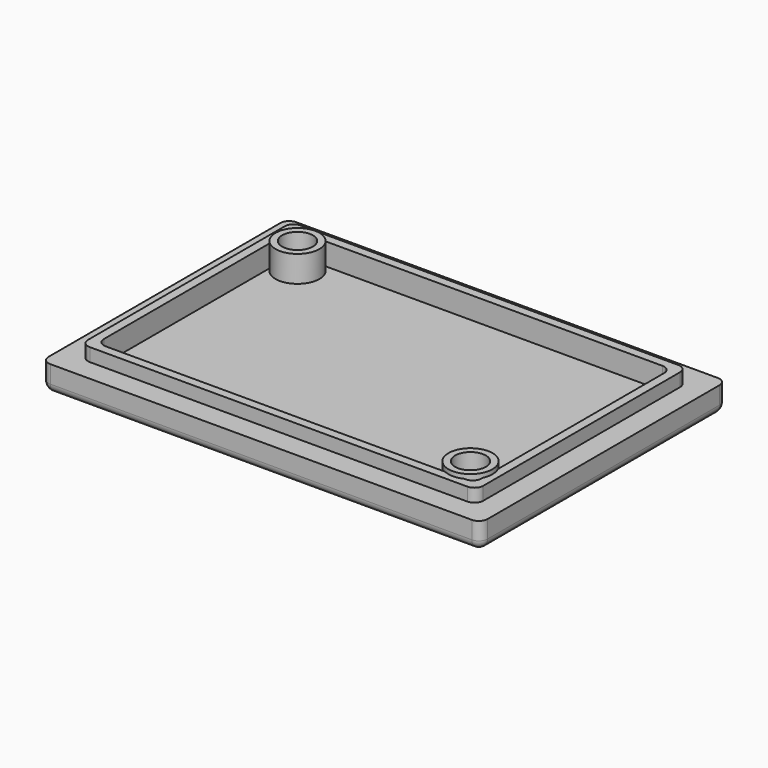
from build123d import *

# Parameters (mm, degrees)
SKETCH_W        = 50
SKETCH_H        = 35
PAD_DEPTH       = 3
SKETCH002_W     = 45
SKETCH002_H     = 30
PAD001_DEPTH    = 1.5
SKETCH003_W     = 43
SKETCH003_H     = 28
POCKET001_DEPTH = 2.5
FILLET_R        = 1
FILLET001_R     = 1
SKETCH005_R     = 2.5
PAD002_DEPTH    = 5
SKETCH004_R     = 2.5
PAD003_DEPTH    = 5
SKETCH006_R     = 1.75
POCKET_DEPTH    = 5
SKETCH007_R     = 1.75
POCKET002_DEPTH = 5
CHAMFER_SIZE    = 1.5
CHAMFER001_SIZE = 1.5


with BuildPart() as part:
    # Sketch → Pad (new body)
    with BuildSketch(Plane.XY):
        Rectangle(SKETCH_W, SKETCH_H)
    extrude(amount=PAD_DEPTH)

    # Sketch002 → Pad001 (join)
    with BuildSketch(Plane.XY.offset(3)):
        Rectangle(SKETCH002_W, SKETCH002_H)
    extrude(amount=PAD001_DEPTH)

    # Sketch003 (on Face11 of Pad001) → Pocket001 (cut)
    with BuildSketch(Plane.XY.offset(4.5)):
        Rectangle(SKETCH003_W, SKETCH003_H)
    extrude(amount=-POCKET001_DEPTH, mode=Mode.SUBTRACT)

    # Fillet
    fillet_edges = [part.edges().sort_by_distance(p)[0] for p in [
        (0, 17.5, 0),
        (-25, 17.5, 1.5),
        (-25, 0, 0),
        (-25, -17.5, 1.5),
        (0, -17.5, 0),
        (25, -17.5, 1.5),
        (25, 0, 0),
        (25, 17.5, 1.5),
    ]]
    fillet(fillet_edges, radius=FILLET_R)

    # Fillet001
    fillet001_edges = [part.edges().sort_by_distance(p)[0] for p in [
        (-21.5, -14, 3.25),
        (22.5, -15, 3.75),
        (22.5, 15, 3.75),
        (-22.5, 15, 3.75),
        (-22.5, -15, 3.75),
        (21.5, 14, 3.25),
        (-21.5, 14, 3.25),
        (21.5, -14, 3.25),
    ]]
    fillet(fillet001_edges, radius=FILLET001_R)

    # Sketch005 → Pad002 (join)
    with BuildSketch(Plane.XY):
        with Locations((-19.25, 11.75)):
            Circle(SKETCH005_R)
    extrude(amount=PAD002_DEPTH)

    # Sketch004 (on Face35 of Fillet001) → Pad003 (join)
    with BuildSketch(Plane(origin=(0, 0, 0), x_dir=(1, 0, 0), z_dir=(0, 0, -1))):
        with Locations((19.25, 11.75)):
            Circle(SKETCH004_R)
    extrude(amount=-PAD003_DEPTH)

    # Sketch006 (on Face48 of Pad003) → Pocket (cut)
    with BuildSketch(Plane(origin=(0, 0, 0), x_dir=(1, 0, 0), z_dir=(0, 0, -1))):
        with Locations((-19.25, -11.75)):
            Circle(SKETCH006_R)
    extrude(amount=-POCKET_DEPTH, mode=Mode.SUBTRACT)

    # Sketch007 (on Face48 of Pocket) → Pocket002 (cut)
    with BuildSketch(Plane(origin=(0, 0, 0), x_dir=(1, 0, 0), z_dir=(0, 0, -1))):
        with Locations((19.25, 11.75)):
            Circle(SKETCH007_R)
    extrude(amount=-POCKET002_DEPTH, mode=Mode.SUBTRACT)

    # Chamfer
    chamfer_edges = [part.edges().sort_by_distance(p)[0] for p in [
        (-21, 11.75, 0),
    ]]
    chamfer(chamfer_edges, length=CHAMFER_SIZE)

    # Chamfer001
    chamfer001_edges = [part.edges().sort_by_distance(p)[0] for p in [
        (17.5, -11.75, 0),
    ]]
    chamfer(chamfer001_edges, length=CHAMFER001_SIZE)


solid = part.part
